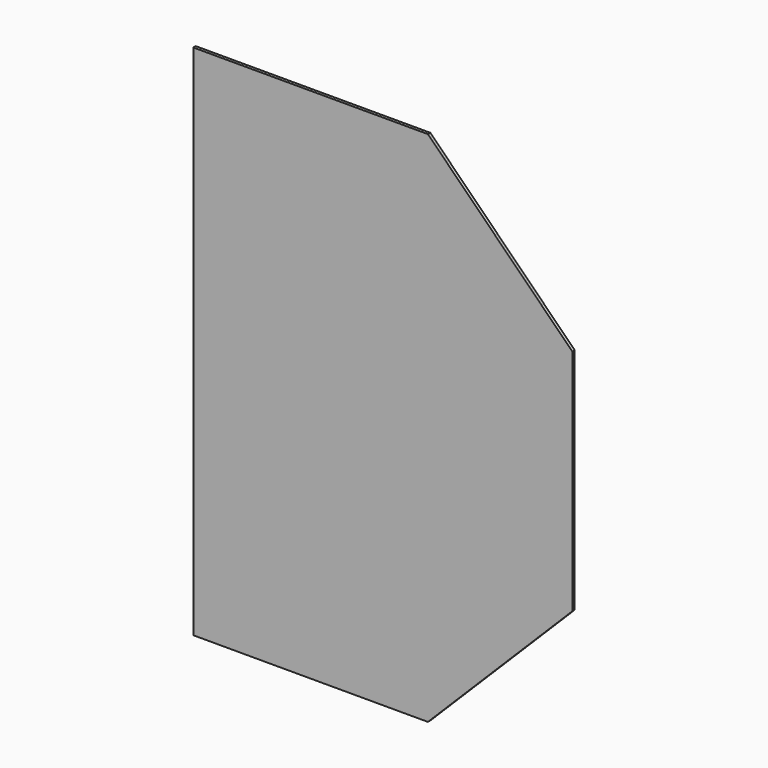
from build123d import *

# Parameters (mm, degrees)
F0_W     = 247.65
F0_H     = 546.1
F1_DEPTH = 1.5875


with BuildPart() as f1:
    # F0 (on Front) → F1 (new body, symmetric)
    with BuildSketch(Plane.XZ):
        with Locations((-76.2, 0)):
            Rectangle(F0_W, F0_H)
        Polygon((200.025, 120.65), (47.625, 273.05), (47.625, -273.05), (200.025, -120.65), align=None)
    extrude(amount=F1_DEPTH, both=True)


solid = f1.part
